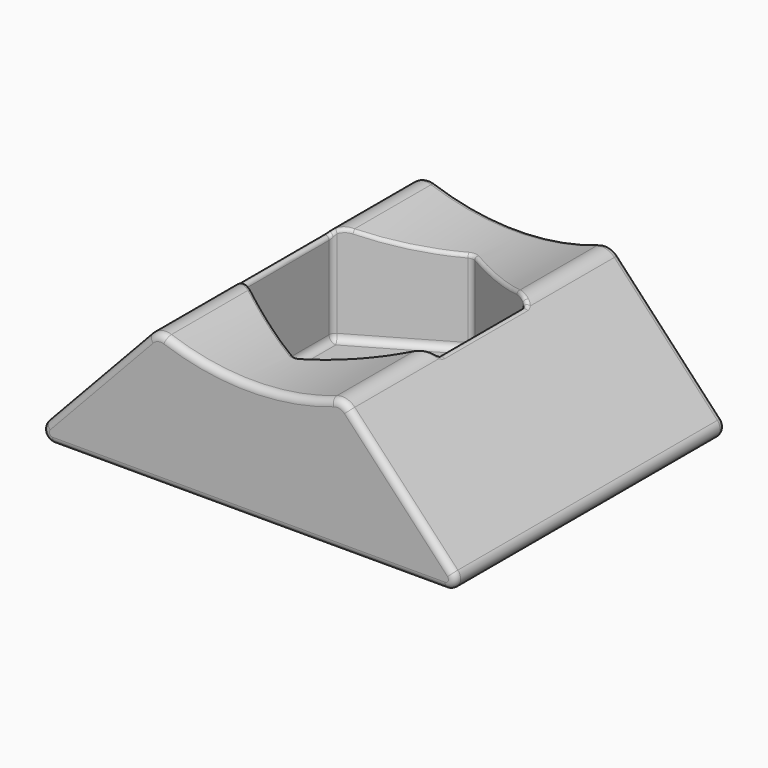
from build123d import *

# Parameters (mm, degrees)
PAD001_DEPTH = 2.5
PAD_DEPTH    = 5
FILLET_R     = 0.5
FILLET001_R  = 0.3
FILLET002_R  = 0.2
FILLET003_R  = 0.1
FILLET004_R  = 0.2
SKETCH002_R  = 1.6
POCKET_DEPTH = 0.977643
FILLET005_R  = 0.2


with BuildPart() as pad001:
    # Sketch001 → Pad001 (new body, symmetric)
    with BuildSketch(Plane.XY):
        Polygon((2.85, -1.645448), (2.85, 1.645448), (0, 3.290897), (-2.85, 1.645448), (-2.85, -1.645448), (0, -3.290897), align=None)
    extrude(amount=PAD001_DEPTH, both=True)


with BuildPart() as fillet005:
    # Sketch → Pad (new body, symmetric)
    with BuildSketch(Plane.XZ):
        with BuildLine():
            Line((-6.5, -3.477643), (6.5, -3.477643))
            Line((6.5, -3.477643), (2.75, 0.522357))
            ThreePointArc((-2.75, 0.522357), (0, 0), (2.75, 0.522357))
            Line((-2.75, 0.522357), (-6.5, -3.477643))
        make_face()
    extrude(amount=PAD_DEPTH, both=True)

    # Fillet
    fillet_edges = [fillet005.edges().sort_by_distance(p)[0] for p in [
        (2.75, 0, 0.522357),
        (-2.75, 0, 0.522357),
    ]]
    fillet(fillet_edges, radius=FILLET_R)

    # Fillet001
    fillet001_edges = [fillet005.edges().sort_by_distance(p)[0] for p in [
        (-6.5, 0, -3.477643),
        (6.5, 0, -3.477643),
    ]]
    fillet(fillet001_edges, radius=FILLET001_R)

    # Cut: cut Pad001
    add(pad001.part, mode=Mode.SUBTRACT)

    # Fillet002
    fillet002_edges = [fillet005.edges().sort_by_distance(p)[0] for p in [
        (-2.85, 1.645448, -1.060903),
        (0, 3.290897, -1.25),
        (-2.85, -1.645448, -1.060903),
        (0, -3.290897, -1.25),
        (2.85, -1.645448, -1.060903),
        (2.85, 1.645448, -1.060903),
    ]]
    fillet(fillet002_edges, radius=FILLET002_R)

    # Fillet003
    fillet003_edges = [fillet005.edges().sort_by_distance(p)[0] for p in [
        (-2.598935, -1.7904, 0.438269),
    ]]
    fillet(fillet003_edges, radius=FILLET003_R)

    # Fillet004
    fillet004_edges = [fillet005.edges().sort_by_distance(p)[0] for p in [
        (-2.85, 0, -2.5),
    ]]
    fillet(fillet004_edges, radius=FILLET004_R)

    # Sketch002 → Pocket (cut)
    with BuildSketch(Plane.XY.offset(-2.5)):
        Circle(SKETCH002_R)
    extrude(amount=-POCKET_DEPTH, mode=Mode.SUBTRACT)

    # Fillet005
    fillet005_edges = [fillet005.edges().sort_by_distance(p)[0] for p in [
        (-4.501608, -5, -1.346024),
        (-4.501608, 5, -1.346024),
    ]]
    fillet(fillet005_edges, radius=FILLET005_R)


solid = fillet005.part
